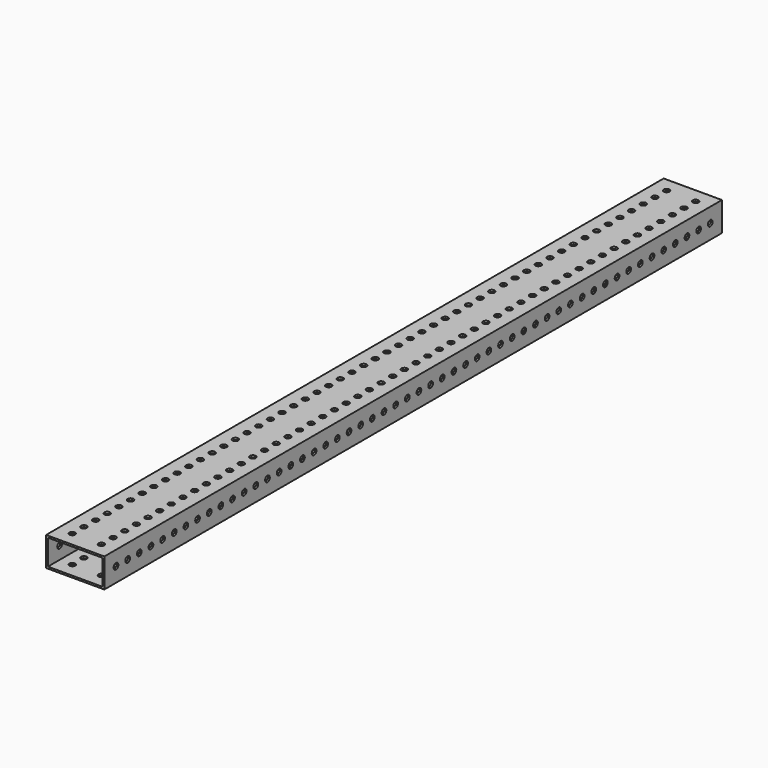
from build123d import *

# Parameters (mm, degrees)
F0_W     = 50.8
F0_H     = 25.4
F0_W_2   = 47.5996
F0_H_2   = 22.1996
F1_DEPTH = 673.1
F4_D     = 5.1054
F5_D     = 5.1054
F6_D     = 5.1054


with BuildPart() as f1:
    # F0 (on Front) → F1 (new body)
    with BuildSketch(Plane.XZ):
        Rectangle(F0_W, F0_H)
        Rectangle(F0_W_2, F0_H_2, mode=Mode.SUBTRACT)
    extrude(amount=F1_DEPTH)

    # F4 (through all)
    with Locations(Plane.YZ.offset(25.4)):
        with Locations((-342.9, 0), (-368.3, 0), (-457.2, 0), (-482.6, 0), (-406.4, 0), (-431.8, 0), (-660.4, 0), (-622.3, 0), (-635, 0), (-609.6, 0), (-596.9, 0), (-508, 0), (-520.7, 0), (-393.7, 0), (-495.3, 0), (-647.7, 0), (-355.6, 0), (-469.9, 0), (-571.5, 0), (-419.1, 0), (-584.2, 0), (-546.1, 0), (-444.5, 0), (-558.8, 0), (-533.4, 0), (-381, 0), (-50.8, 0), (-266.7, 0), (-254, 0), (-101.6, 0), (-203.2, 0), (-304.8, 0), (-317.5, 0), (-114.3, 0), (-12.7, 0), (-292.1, 0), (-241.3, 0), (-190.5, 0), (-38.1, 0), (-88.9, 0), (-165.1, 0), (-76.2, 0), (-279.4, 0), (-25.4, 0), (-152.4, 0), (-228.6, 0), (-215.9, 0), (-139.7, 0), (-177.8, 0), (-63.5, 0), (-127, 0), (-330.2, 0)):
            Hole(F4_D / 2)

    # F5 (through all)
    with Locations(Plane.XY.offset(12.7)):
        with Locations((-12.7, -165.1), (-12.7, -254), (-12.7, -368.3), (-12.7, -292.1), (12.7, -381), (-12.7, -266.7), (12.7, -368.3), (12.7, -101.6), (12.7, -76.2), (12.7, -228.6), (-12.7, -101.6), (-12.7, -342.9), (12.7, -114.3), (12.7, -152.4), (12.7, -215.9), (-12.7, -88.9), (12.7, -139.7), (12.7, -63.5), (-12.7, -177.8), (12.7, -317.5), (12.7, -304.8), (12.7, -241.3), (12.7, -254), (12.7, -127), (-12.7, -76.2), (12.7, -177.8), (12.7, -292.1), (-12.7, -114.3), (12.7, -165.1), (-12.7, -241.3), (-12.7, -317.5), (12.7, -406.4), (12.7, -419.1), (-12.7, -215.9), (12.7, -190.5), (12.7, -279.4), (-12.7, -228.6), (12.7, -431.8), (12.7, -342.9), (-12.7, -304.8), (12.7, -393.7), (-12.7, -279.4), (-12.7, -393.7), (-12.7, -406.4), (-12.7, -355.6), (12.7, -330.2), (-12.7, -431.8), (-12.7, -381), (12.7, -203.2), (-12.7, -38.1), (-12.7, -190.5), (-12.7, -152.4), (12.7, -355.6), (12.7, -88.9), (-12.7, -330.2), (-12.7, -63.5), (12.7, -50.8), (-12.7, -50.8), (-12.7, -203.2), (12.7, -266.7), (12.7, -38.1), (-12.7, -139.7), (-12.7, -419.1), (-12.7, -127), (12.7, -457.2), (12.7, -571.5), (-12.7, -457.2), (12.7, -584.2), (-12.7, -444.5), (12.7, -469.9), (12.7, -495.3), (-12.7, -469.9), (12.7, -482.6), (-12.7, -520.7), (12.7, -508), (12.7, -520.7), (-12.7, -571.5), (12.7, -622.3), (-12.7, -495.3), (-12.7, -508), (-12.7, -533.4), (12.7, -546.1), (-12.7, -546.1), (12.7, -635), (12.7, -596.9), (12.7, -444.5), (-12.7, -558.8), (-12.7, -584.2), (-12.7, -596.9), (-12.7, -609.6), (-12.7, -622.3), (-12.7, -635), (-12.7, -647.7), (-12.7, -660.4), (12.7, -558.8), (12.7, -647.7), (12.7, -533.4), (12.7, -660.4), (12.7, -609.6), (-12.7, -482.6)):
            Hole(F5_D / 2)

    # F6 (through all)
    with Locations(Plane.XY.offset(12.7)):
        with Locations((-12.7, -12.7), (12.7, -12.7), (12.7, -25.4), (-12.7, -25.4)):
            Hole(F6_D / 2)


solid = f1.part
